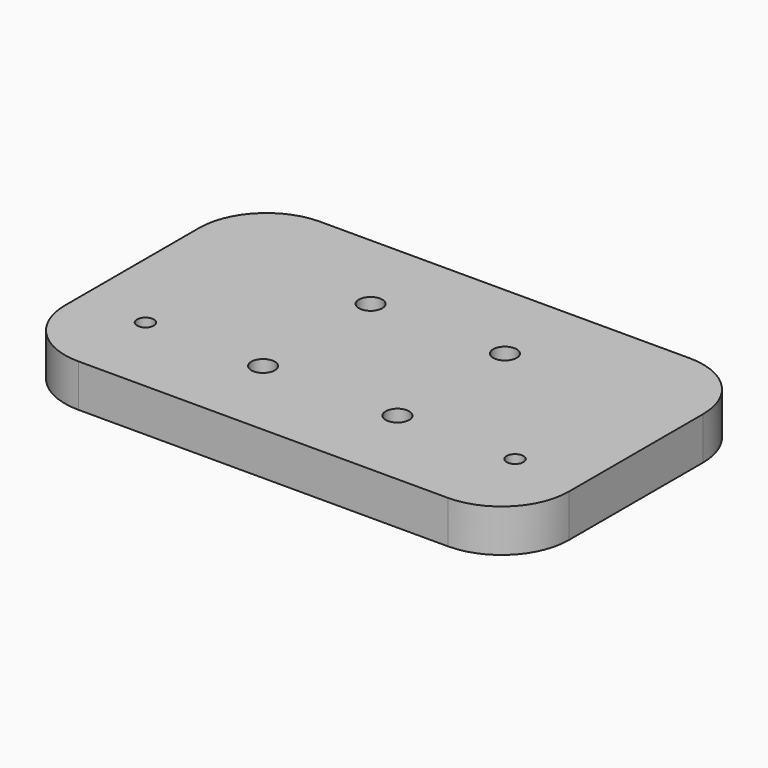
from build123d import *

# Parameters (mm, degrees)
F0_W     = 75
F0_H     = 45
F0_R     = 1.25
F0_R_2   = 1.75
F1_DEPTH = 6.35
F2_R     = 10


with BuildPart() as f1:
    # F0 (on Top) → F1 (new body)
    with BuildSketch(Plane.XY):
        Rectangle(F0_W, F0_H)
        with Locations((-27.5, -10)):
            Circle(F0_R, mode=Mode.SUBTRACT)
        with Locations((-10, -10)):
            Circle(F0_R_2, mode=Mode.SUBTRACT)
        with Locations((10, -10)):
            Circle(F0_R_2, mode=Mode.SUBTRACT)
        with Locations((27.5, -10)):
            Circle(F0_R, mode=Mode.SUBTRACT)
        with Locations((-10, 10)):
            Circle(F0_R_2, mode=Mode.SUBTRACT)
        with Locations((10, 10)):
            Circle(F0_R_2, mode=Mode.SUBTRACT)
    extrude(amount=F1_DEPTH)

    # F2
    f2_edges = [f1.edges().sort_by_distance(p)[0] for p in [
        (-37.5, 22.5, 3.175),
        (37.5, 22.5, 3.175),
        (37.5, -22.5, 3.175),
        (-37.5, -22.5, 3.175),
    ]]
    fillet(f2_edges, radius=F2_R)


solid = f1.part
